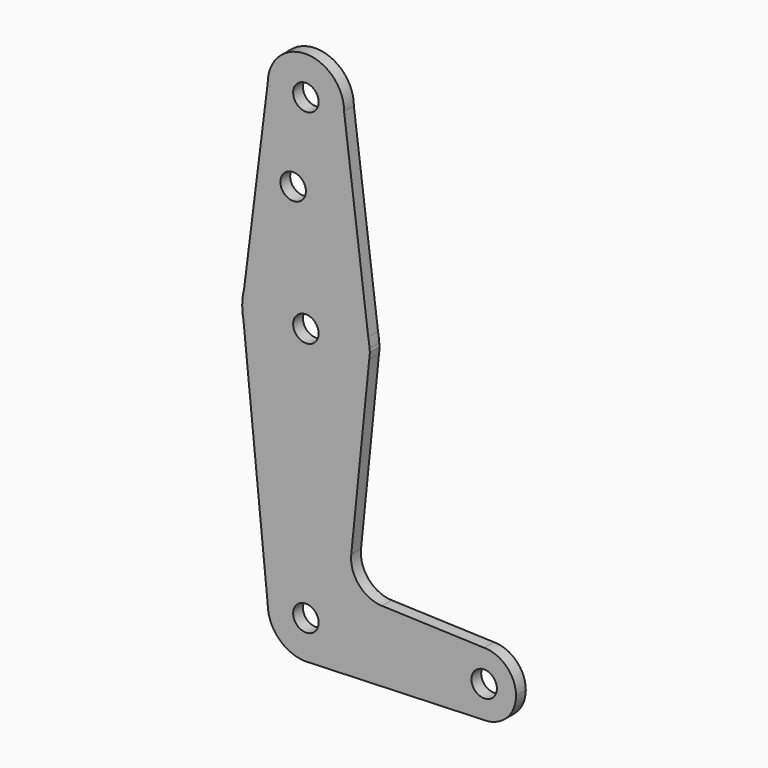
from build123d import *

# Parameters (mm, degrees)
F0_R     = 3.175
F1_DEPTH = 3.048


with BuildPart() as f1:
    # F0 (on Front) → F1 (new body)
    with BuildSketch(Plane.XZ):
        with BuildLine():
            ThreePointArc((0.6794904459, -9.5007324841), (6.9712901065, -6.4905114784), (9.525, 0))
            ThreePointArc((9.525, 0), (0, 9.525), (-9.525, 0))
            ThreePointArc((-9.525, 0), (-6.7351920908, -6.7351920908), (0, -9.525))
            Line((0, -9.525), (0.6794904459, -9.5007324841))
        make_face()
        Circle(F0_R, mode=Mode.SUBTRACT)
        with BuildLine():
            ThreePointArc((-9.525, 0), (0, 9.525), (9.525, 0))
            ThreePointArc((9.525, 0), (6.9712901065, -6.4905114784), (0.6794904459, -9.5007324841))
            Line((0.6794904459, -9.5007324841), (44.45, -7.9375))
            ThreePointArc((44.45, -7.9375), (36.5125, 0), (44.45, 7.9375))
            Line((44.45, 7.9375), (18.9322510366, 8.8523612883))
            ThreePointArc((18.9322510366, 8.8523612883), (13.2244578226, 11.5730964697), (11.3073615093, 17.5985462477))
            Line((11.3073615093, 17.5985462477), (15.7942028414, 61.9003807942))
            ThreePointArc((15.7942028414, 61.9003807942), (0.7807554937, 47.644210967), (-15.5606435644, 60.3564356436))
            Line((-15.5606435644, 60.3564356436), (-9.525, 0))
        make_face()
        with BuildLine():
            ThreePointArc((0, -9.525), (0.3399618281, -9.5189311877), (0.6794904459, -9.5007324841))
            Line((0.6794904459, -9.5007324841), (0, -9.525))
        make_face()
        with BuildLine():
            Line((-15.875, 63.5), (-15.5606435644, 60.3564356436))
            ThreePointArc((-15.5606435644, 60.3564356436), (0.7807554937, 47.644210967), (15.7942028414, 61.9003807942))
            ThreePointArc((15.7942028414, 61.9003807942), (15.8547878432, 62.6991707759), (15.875, 63.5))
            ThreePointArc((15.875, 63.5), (15.8699397122, 63.9007973684), (15.8547620749, 64.3013392219))
            Line((15.8547620749, 64.3013392219), (15.5542598667, 66.675))
            ThreePointArc((15.5542598667, 66.675), (0.3758219284, 79.3705508058), (-15.3865384615, 67.4076923077))
            Line((-15.3865384615, 67.4076923077), (-15.875, 63.5))
        make_face()
        with Locations((0, 63.5)):
            Circle(F0_R, mode=Mode.SUBTRACT)
        with BuildLine():
            ThreePointArc((-15.875, 63.5), (-15.7962153946, 61.9203784605), (-15.5606435644, 60.3564356436))
            Line((-15.5606435644, 60.3564356436), (-15.875, 63.5))
        make_face()
        with BuildLine():
            ThreePointArc((44.45, 7.9375), (36.5125, 0), (44.45, -7.9375))
            ThreePointArc((44.45, -7.9375), (50.0626600757, -5.6126600757), (52.3875, 0))
            ThreePointArc((52.3875, 0), (50.0626600757, 5.6126600757), (44.45, 7.9375))
        make_face()
        with Locations((44.45, 0)):
            Circle(F0_R, mode=Mode.SUBTRACT)
        with BuildLine():
            ThreePointArc((-15.3865384615, 67.4076923077), (-15.7524112928, 65.4690514116), (-15.875, 63.5))
            Line((-15.875, 63.5), (-15.3865384615, 67.4076923077))
        make_face()
        with BuildLine():
            ThreePointArc((15.875, 63.5), (15.8547878432, 62.6991707759), (15.7942028414, 61.9003807942))
            Line((15.7942028414, 61.9003807942), (15.9562105245, 63.5))
            Line((15.9562105245, 63.5), (15.8547620749, 64.3013392219))
            ThreePointArc((15.8547620749, 64.3013392219), (15.8699397122, 63.9007973684), (15.875, 63.5))
        make_face()
        with BuildLine():
            Line((-9.525, 114.3), (-15.3865384615, 67.4076923077))
            ThreePointArc((-15.3865384615, 67.4076923077), (0.3758219284, 79.3705508058), (15.5542598667, 66.675))
            Line((15.5542598667, 66.675), (9.525, 114.3))
            ThreePointArc((9.525, 114.3), (0, 104.775), (-9.525, 114.3))
        make_face()
        with Locations((-3.175, 93.6750099063)):
            Circle(F0_R, mode=Mode.SUBTRACT)
        with BuildLine():
            ThreePointArc((15.8547620749, 64.3013392219), (15.7492930382, 65.4938389595), (15.5542598667, 66.675))
            Line((15.5542598667, 66.675), (15.8547620749, 64.3013392219))
        make_face()
        with BuildLine():
            ThreePointArc((9.525, 114.3), (0, 123.825), (-9.525, 114.3))
            ThreePointArc((-9.525, 114.3), (0, 104.775), (9.525, 114.3))
        make_face()
        with Locations((0, 114.3)):
            Circle(F0_R, mode=Mode.SUBTRACT)
    extrude(amount=F1_DEPTH)


solid = f1.part
